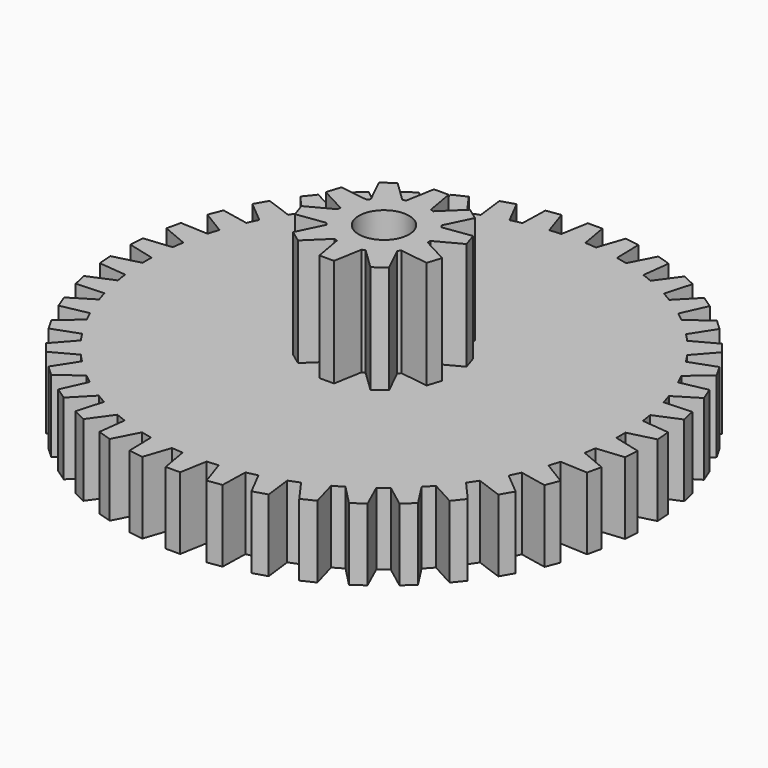
from build123d import *

# Parameters (mm, degrees)
F1_DEPTH = 3
F3_DEPTH = 4.5
F4_R     = 1.05
F5_DEPTH = 7.501


with BuildPart() as f1:
    # F0 (on Top) → F1 (new body)
    with BuildSketch(Plane.XY):
        with BuildLine():
            ThreePointArc((9.872176, -0.236155), (9.874294, -0.118086), (9.875, 0))
            ThreePointArc((9.875, 0), (9.874294, 0.118086), (9.872176, 0.236155))
            ThreePointArc((9.872176, 0.236155), (9.847387, 0.73796), (9.797109, 1.237854))
            ThreePointArc((9.797109, 1.237854), (9.764704, 1.471792), (9.726715, 1.704889))
            ThreePointArc((9.726715, 1.704889), (9.627413, 2.197394), (9.503191, 2.684211))
            ThreePointArc((9.503191, 2.684211), (9.436281, 2.910707), (9.363975, 3.135539))
            ThreePointArc((9.363975, 3.135539), (9.192378, 3.607743), (8.996987, 4.070608))
            ThreePointArc((8.996987, 4.070608), (8.897068, 4.284602), (8.792059, 4.496145))
            ThreePointArc((8.792059, 4.496145), (8.552001, 4.9375), (8.289806, 5.366074))
            ThreePointArc((8.289806, 5.366074), (8.159108, 5.562786), (8.023743, 5.756315))
            ThreePointArc((8.023743, 5.756315), (7.720586, 6.156962), (7.397443, 6.541671))
            ThreePointArc((7.397443, 6.541671), (7.238887, 6.716706), (7.076191, 6.887899))
            ThreePointArc((7.076191, 6.887899), (6.716706, 7.238887), (6.339835, 7.571137))
            ThreePointArc((6.339835, 7.571137), (6.156962, 7.720586), (5.970567, 7.865618))
            ThreePointArc((5.970567, 7.865618), (5.562786, 8.159108), (5.140604, 8.431477))
            ThreePointArc((5.140604, 8.431477), (4.9375, 8.552001), (4.731571, 8.667633))
            ThreePointArc((4.731571, 8.667633), (4.284602, 8.897068), (3.826542, 9.103472))
            ThreePointArc((3.826542, 9.103472), (3.607743, 9.192378), (3.38688, 9.276027))
            ThreePointArc((3.38688, 9.276027), (2.910707, 9.436281), (2.427, 9.57211))
            ThreePointArc((2.427, 9.57211), (2.197394, 9.627413), (1.966531, 9.677209))
            ThreePointArc((1.966531, 9.677209), (1.471792, 9.764704), (0.973244, 9.826923))
            ThreePointArc((0.973244, 9.826923), (0.73796, 9.847387), (0.502254, 9.862219))
            ThreePointArc((0.502254, 9.862219), (0, 9.875), (-0.502254, 9.862219))
            ThreePointArc((-0.502254, 9.862219), (-0.73796, 9.847387), (-0.973244, 9.826923))
            ThreePointArc((-0.973244, 9.826923), (-1.471792, 9.764704), (-1.966531, 9.677209))
            ThreePointArc((-1.966531, 9.677209), (-2.197394, 9.627413), (-2.427, 9.57211))
            ThreePointArc((-2.427, 9.57211), (-2.910707, 9.436281), (-3.38688, 9.276027))
            ThreePointArc((-3.38688, 9.276027), (-3.607743, 9.192378), (-3.826542, 9.103472))
            ThreePointArc((-3.826542, 9.103472), (-4.284602, 8.897068), (-4.731571, 8.667633))
            ThreePointArc((-4.731571, 8.667633), (-4.9375, 8.552001), (-5.140604, 8.431477))
            ThreePointArc((-5.140604, 8.431477), (-5.562786, 8.159108), (-5.970567, 7.865618))
            ThreePointArc((-5.970567, 7.865618), (-6.156962, 7.720586), (-6.339835, 7.571137))
            ThreePointArc((-6.339835, 7.571137), (-6.716706, 7.238887), (-7.076191, 6.887899))
            ThreePointArc((-7.076191, 6.887899), (-7.238887, 6.716706), (-7.397443, 6.541671))
            ThreePointArc((-7.397443, 6.541671), (-7.720586, 6.156962), (-8.023743, 5.756315))
            ThreePointArc((-8.023743, 5.756315), (-8.159108, 5.562786), (-8.289806, 5.366074))
            ThreePointArc((-8.289806, 5.366074), (-8.552001, 4.9375), (-8.792059, 4.496145))
            ThreePointArc((-8.792059, 4.496145), (-8.897068, 4.284602), (-8.996987, 4.070608))
            ThreePointArc((-8.996987, 4.070608), (-9.192378, 3.607743), (-9.363975, 3.135539))
            ThreePointArc((-9.363975, 3.135539), (-9.436281, 2.910707), (-9.503191, 2.684211))
            ThreePointArc((-9.503191, 2.684211), (-9.627413, 2.197394), (-9.726715, 1.704889))
            ThreePointArc((-9.726715, 1.704889), (-9.764704, 1.471792), (-9.797109, 1.237854))
            ThreePointArc((-9.797109, 1.237854), (-9.847387, 0.73796), (-9.872176, 0.236155))
            ThreePointArc((-9.872176, 0.236155), (-9.875, 0), (-9.872176, -0.236155))
            ThreePointArc((-9.872176, -0.236155), (-9.847387, -0.73796), (-9.797109, -1.237854))
            ThreePointArc((-9.797109, -1.237854), (-9.764704, -1.471792), (-9.726715, -1.704889))
            ThreePointArc((-9.726715, -1.704889), (-9.627413, -2.197394), (-9.503191, -2.684211))
            ThreePointArc((-9.503191, -2.684211), (-9.436281, -2.910707), (-9.363975, -3.135539))
            ThreePointArc((-9.363975, -3.135539), (-9.192378, -3.607743), (-8.996987, -4.070608))
            ThreePointArc((-8.996987, -4.070608), (-8.897068, -4.284602), (-8.792059, -4.496145))
            ThreePointArc((-8.792059, -4.496145), (-8.552001, -4.9375), (-8.289806, -5.366074))
            ThreePointArc((-8.289806, -5.366074), (-8.159108, -5.562786), (-8.023743, -5.756315))
            ThreePointArc((-8.023743, -5.756315), (-7.720586, -6.156962), (-7.397443, -6.541671))
            ThreePointArc((-7.397443, -6.541671), (-7.238887, -6.716706), (-7.076191, -6.887899))
            ThreePointArc((-7.076191, -6.887899), (-6.716706, -7.238887), (-6.339835, -7.571137))
            ThreePointArc((-6.339835, -7.571137), (-6.156962, -7.720586), (-5.970567, -7.865618))
            ThreePointArc((-5.970567, -7.865618), (-5.562786, -8.159108), (-5.140604, -8.431477))
            ThreePointArc((-5.140604, -8.431477), (-4.9375, -8.552001), (-4.731571, -8.667633))
            ThreePointArc((-4.731571, -8.667633), (-4.284602, -8.897068), (-3.826542, -9.103472))
            ThreePointArc((-3.826542, -9.103472), (-3.607743, -9.192378), (-3.38688, -9.276027))
            ThreePointArc((-3.38688, -9.276027), (-2.910707, -9.436281), (-2.427, -9.57211))
            ThreePointArc((-2.427, -9.57211), (-2.197394, -9.627413), (-1.966531, -9.677209))
            ThreePointArc((-1.966531, -9.677209), (-1.471792, -9.764704), (-0.973244, -9.826923))
            ThreePointArc((-0.973244, -9.826923), (-0.73796, -9.847387), (-0.502254, -9.862219))
            ThreePointArc((-0.502254, -9.862219), (0, -9.875), (0.502254, -9.862219))
            ThreePointArc((0.502254, -9.862219), (0.73796, -9.847387), (0.973244, -9.826923))
            ThreePointArc((0.973244, -9.826923), (1.471792, -9.764704), (1.966531, -9.677209))
            ThreePointArc((1.966531, -9.677209), (2.197394, -9.627413), (2.427, -9.57211))
            ThreePointArc((2.427, -9.57211), (2.910707, -9.436281), (3.38688, -9.276027))
            ThreePointArc((3.38688, -9.276027), (3.607743, -9.192378), (3.826542, -9.103472))
            ThreePointArc((3.826542, -9.103472), (4.284602, -8.897068), (4.731571, -8.667633))
            ThreePointArc((4.731571, -8.667633), (4.9375, -8.552001), (5.140604, -8.431477))
            ThreePointArc((5.140604, -8.431477), (5.562786, -8.159108), (5.970567, -7.865618))
            ThreePointArc((5.970567, -7.865618), (6.156962, -7.720586), (6.339835, -7.571137))
            ThreePointArc((6.339835, -7.571137), (6.716706, -7.238887), (7.076191, -6.887899))
            ThreePointArc((7.076191, -6.887899), (7.238887, -6.716706), (7.397443, -6.541671))
            ThreePointArc((7.397443, -6.541671), (7.720586, -6.156962), (8.023743, -5.756315))
            ThreePointArc((8.023743, -5.756315), (8.159108, -5.562786), (8.289806, -5.366074))
            ThreePointArc((8.289806, -5.366074), (8.552001, -4.9375), (8.792059, -4.496145))
            ThreePointArc((8.792059, -4.496145), (8.897068, -4.284602), (8.996987, -4.070608))
            ThreePointArc((8.996987, -4.070608), (9.192378, -3.607743), (9.363975, -3.135539))
            ThreePointArc((9.363975, -3.135539), (9.436281, -2.910707), (9.503191, -2.684211))
            ThreePointArc((9.503191, -2.684211), (9.627413, -2.197394), (9.726715, -1.704889))
            ThreePointArc((9.726715, -1.704889), (9.764704, -1.471792), (9.797109, -1.237854))
            ThreePointArc((9.797109, -1.237854), (9.847387, -0.73796), (9.872176, -0.236155))
        make_face()
        with BuildLine():
            ThreePointArc((9.797109, 1.237854), (9.847387, 0.73796), (9.872176, 0.236155))
            Line((9.872176, 0.236155), (10.987693, 0.520201))
            Line((10.987693, 0.520201), (10.942501, 1.12324))
            Line((10.942501, 1.12324), (9.797109, 1.237854))
        make_face()
        with BuildLine():
            Line((10.987693, -0.520201), (9.872176, -0.236155))
            ThreePointArc((9.872176, -0.236155), (9.847387, -0.73796), (9.797109, -1.237854))
            Line((9.797109, -1.237854), (10.942501, -1.12324))
            Line((10.942501, -1.12324), (10.987693, -0.520201))
        make_face()
        with BuildLine():
            ThreePointArc((9.503191, 2.684211), (9.627413, 2.197394), (9.726715, 1.704889))
            Line((9.726715, 1.704889), (10.787437, 2.152021))
            Line((10.787437, 2.152021), (10.652872, 2.741589))
            Line((10.652872, 2.741589), (9.503191, 2.684211))
        make_face()
        with BuildLine():
            Line((10.787437, -2.152021), (9.726715, -1.704889))
            ThreePointArc((9.726715, -1.704889), (9.627413, -2.197394), (9.503191, -2.684211))
            Line((9.503191, -2.684211), (10.652872, -2.741589))
            Line((10.652872, -2.741589), (10.787437, -2.152021))
        make_face()
        with BuildLine():
            ThreePointArc((8.996987, 4.070608), (9.192378, 3.607743), (9.363975, 3.135539))
            Line((9.363975, 3.135539), (10.346208, 3.735769))
            Line((10.346208, 3.735769), (10.125276, 4.298696))
            Line((10.125276, 4.298696), (8.996987, 4.070608))
        make_face()
        with BuildLine():
            Line((10.346208, -3.735769), (9.363975, -3.135539))
            ThreePointArc((9.363975, -3.135539), (9.192378, -3.607743), (8.996987, -4.070608))
            Line((8.996987, -4.070608), (10.125276, -4.298696))
            Line((10.125276, -4.298696), (10.346208, -3.735769))
        make_face()
        with BuildLine():
            ThreePointArc((8.289806, 5.366074), (8.552001, 4.9375), (8.792059, 4.496145))
            Line((8.792059, 4.496145), (9.673862, 5.236066))
            Line((9.673862, 5.236066), (9.371497, 5.759778))
            Line((9.371497, 5.759778), (8.289806, 5.366074))
        make_face()
        with BuildLine():
            Line((9.673862, -5.236066), (8.792059, -4.496145))
            ThreePointArc((8.792059, -4.496145), (8.552001, -4.9375), (8.289806, -5.366074))
            Line((8.289806, -5.366074), (9.371497, -5.759778))
            Line((9.371497, -5.759778), (9.673862, -5.236066))
        make_face()
        with BuildLine():
            ThreePointArc((7.397443, 6.541671), (7.720586, 6.156962), (8.023743, 5.756315))
            Line((8.023743, 5.756315), (8.785418, 6.619398))
            Line((8.785418, 6.619398), (8.408375, 7.092195))
            Line((8.408375, 7.092195), (7.397443, 6.541671))
        make_face()
        with BuildLine():
            Line((8.785418, -6.619398), (8.023743, -5.756315))
            ThreePointArc((8.023743, -5.756315), (7.720586, -6.156962), (7.397443, -6.541671))
            Line((7.397443, -6.541671), (8.408375, -7.092195))
            Line((8.408375, -7.092195), (8.785418, -6.619398))
        make_face()
        with BuildLine():
            ThreePointArc((6.339835, 7.571137), (6.716706, 7.238887), (7.076191, 6.887899))
            Line((7.076191, 6.887899), (7.700722, 7.854863))
            Line((7.700722, 7.854863), (7.257424, 8.266184))
            Line((7.257424, 8.266184), (6.339835, 7.571137))
        make_face()
        with BuildLine():
            Line((7.700722, -7.854863), (7.076191, -6.887899))
            ThreePointArc((7.076191, -6.887899), (6.716706, -7.238887), (6.339835, -7.571137))
            Line((6.339835, -7.571137), (7.257424, -8.266184))
            Line((7.257424, -8.266184), (7.700722, -7.854863))
        make_face()
        with BuildLine():
            ThreePointArc((5.140604, 8.431477), (5.562786, 8.159108), (5.970567, 7.865618))
            Line((5.970567, 7.865618), (6.444005, 8.914864))
            Line((6.444005, 8.914864), (5.944354, 9.255521))
            Line((5.944354, 9.255521), (5.140604, 8.431477))
        make_face()
        with BuildLine():
            Line((6.444005, -8.914864), (5.970567, -7.865618))
            ThreePointArc((5.970567, -7.865618), (5.562786, -8.159108), (5.140604, -8.431477))
            Line((5.140604, -8.431477), (5.944354, -9.255521))
            Line((5.944354, -9.255521), (6.444005, -8.914864))
        make_face()
        with BuildLine():
            ThreePointArc((3.826542, 9.103472), (4.284602, 8.897068), (4.731571, 8.667633))
            Line((4.731571, 8.667633), (5.043339, 9.775721))
            Line((5.043339, 9.775721), (4.498496, 10.038104))
            Line((4.498496, 10.038104), (3.826542, 9.103472))
        make_face()
        with BuildLine():
            Line((5.043339, -9.775721), (4.731571, -8.667633))
            ThreePointArc((4.731571, -8.667633), (4.284602, -8.897068), (3.826542, -9.103472))
            Line((3.826542, -9.103472), (4.498496, -10.038104))
            Line((4.498496, -10.038104), (5.043339, -9.775721))
        make_face()
        with BuildLine():
            ThreePointArc((2.427, 9.57211), (2.910707, 9.436281), (3.38688, 9.276027))
            Line((3.38688, 9.276027), (3.530014, 10.418205))
            Line((3.530014, 10.418205), (2.95215, 10.596453))
            Line((2.95215, 10.596453), (2.427, 9.57211))
        make_face()
        with BuildLine():
            Line((3.530014, -10.418205), (3.38688, -9.276027))
            ThreePointArc((3.38688, -9.276027), (2.910707, -9.436281), (2.427, -9.57211))
            Line((2.427, -9.57211), (2.95215, -10.596453))
            Line((2.95215, -10.596453), (3.530014, -10.418205))
        make_face()
        with BuildLine():
            ThreePointArc((0.973244, 9.826923), (1.471792, 9.764704), (1.966531, 9.677209))
            Line((1.966531, 9.677209), (1.937833, 10.827964))
            Line((1.937833, 10.827964), (1.339858, 10.918094))
            Line((1.339858, 10.918094), (0.973244, 9.826923))
        make_face()
        with BuildLine():
            Line((1.937833, -10.827964), (1.966531, -9.677209))
            ThreePointArc((1.966531, -9.677209), (1.471792, -9.764704), (0.973244, -9.826923))
            Line((0.973244, -9.826923), (1.339858, -10.918094))
            Line((1.339858, -10.918094), (1.937833, -10.827964))
        make_face()
        with BuildLine():
            ThreePointArc((-0.502254, 9.862219), (0, 9.875), (0.502254, 9.862219))
            Line((0.502254, 9.862219), (0.302365, 10.995844))
            Line((0.302365, 10.995844), (-0.302365, 10.995844))
            Line((-0.302365, 10.995844), (-0.502254, 9.862219))
        make_face()
        with BuildLine():
            Line((0.302365, -10.995844), (0.502254, -9.862219))
            ThreePointArc((0.502254, -9.862219), (0, -9.875), (-0.502254, -9.862219))
            Line((-0.502254, -9.862219), (-0.302365, -10.995844))
            Line((-0.302365, -10.995844), (0.302365, -10.995844))
        make_face()
        with BuildLine():
            ThreePointArc((-1.966531, 9.677209), (-1.471792, 9.764704), (-0.973244, 9.826923))
            Line((-0.973244, 9.826923), (-1.339858, 10.918094))
            Line((-1.339858, 10.918094), (-1.937833, 10.827964))
            Line((-1.937833, 10.827964), (-1.966531, 9.677209))
        make_face()
        with BuildLine():
            Line((-1.339858, -10.918094), (-0.973244, -9.826923))
            ThreePointArc((-0.973244, -9.826923), (-1.471792, -9.764704), (-1.966531, -9.677209))
            Line((-1.966531, -9.677209), (-1.937833, -10.827964))
            Line((-1.937833, -10.827964), (-1.339858, -10.918094))
        make_face()
        with BuildLine():
            ThreePointArc((-3.38688, 9.276027), (-2.910707, 9.436281), (-2.427, 9.57211))
            Line((-2.427, 9.57211), (-2.95215, 10.596453))
            Line((-2.95215, 10.596453), (-3.530014, 10.418205))
            Line((-3.530014, 10.418205), (-3.38688, 9.276027))
        make_face()
        with BuildLine():
            Line((-2.95215, -10.596453), (-2.427, -9.57211))
            ThreePointArc((-2.427, -9.57211), (-2.910707, -9.436281), (-3.38688, -9.276027))
            Line((-3.38688, -9.276027), (-3.530014, -10.418205))
            Line((-3.530014, -10.418205), (-2.95215, -10.596453))
        make_face()
        with BuildLine():
            ThreePointArc((-4.731571, 8.667633), (-4.284602, 8.897068), (-3.826542, 9.103472))
            Line((-3.826542, 9.103472), (-4.498496, 10.038104))
            Line((-4.498496, 10.038104), (-5.043339, 9.775721))
            Line((-5.043339, 9.775721), (-4.731571, 8.667633))
        make_face()
        with BuildLine():
            Line((-4.498496, -10.038104), (-3.826542, -9.103472))
            ThreePointArc((-3.826542, -9.103472), (-4.284602, -8.897068), (-4.731571, -8.667633))
            Line((-4.731571, -8.667633), (-5.043339, -9.775721))
            Line((-5.043339, -9.775721), (-4.498496, -10.038104))
        make_face()
        with BuildLine():
            ThreePointArc((-5.970567, 7.865618), (-5.562786, 8.159108), (-5.140604, 8.431477))
            Line((-5.140604, 8.431477), (-5.944354, 9.255521))
            Line((-5.944354, 9.255521), (-6.444005, 8.914864))
            Line((-6.444005, 8.914864), (-5.970567, 7.865618))
        make_face()
        with BuildLine():
            Line((-5.944354, -9.255521), (-5.140604, -8.431477))
            ThreePointArc((-5.140604, -8.431477), (-5.562786, -8.159108), (-5.970567, -7.865618))
            Line((-5.970567, -7.865618), (-6.444005, -8.914864))
            Line((-6.444005, -8.914864), (-5.944354, -9.255521))
        make_face()
        with BuildLine():
            ThreePointArc((-7.076191, 6.887899), (-6.716706, 7.238887), (-6.339835, 7.571137))
            Line((-6.339835, 7.571137), (-7.257424, 8.266184))
            Line((-7.257424, 8.266184), (-7.700722, 7.854863))
            Line((-7.700722, 7.854863), (-7.076191, 6.887899))
        make_face()
        with BuildLine():
            Line((-7.257424, -8.266184), (-6.339835, -7.571137))
            ThreePointArc((-6.339835, -7.571137), (-6.716706, -7.238887), (-7.076191, -6.887899))
            Line((-7.076191, -6.887899), (-7.700722, -7.854863))
            Line((-7.700722, -7.854863), (-7.257424, -8.266184))
        make_face()
        with BuildLine():
            ThreePointArc((-8.023743, 5.756315), (-7.720586, 6.156962), (-7.397443, 6.541671))
            Line((-7.397443, 6.541671), (-8.408375, 7.092195))
            Line((-8.408375, 7.092195), (-8.785418, 6.619398))
            Line((-8.785418, 6.619398), (-8.023743, 5.756315))
        make_face()
        with BuildLine():
            Line((-8.408375, -7.092195), (-7.397443, -6.541671))
            ThreePointArc((-7.397443, -6.541671), (-7.720586, -6.156962), (-8.023743, -5.756315))
            Line((-8.023743, -5.756315), (-8.785418, -6.619398))
            Line((-8.785418, -6.619398), (-8.408375, -7.092195))
        make_face()
        with BuildLine():
            ThreePointArc((-8.792059, 4.496145), (-8.552001, 4.9375), (-8.289806, 5.366074))
            Line((-8.289806, 5.366074), (-9.371497, 5.759778))
            Line((-9.371497, 5.759778), (-9.673862, 5.236066))
            Line((-9.673862, 5.236066), (-8.792059, 4.496145))
        make_face()
        with BuildLine():
            Line((-9.371497, -5.759778), (-8.289806, -5.366074))
            ThreePointArc((-8.289806, -5.366074), (-8.552001, -4.9375), (-8.792059, -4.496145))
            Line((-8.792059, -4.496145), (-9.673862, -5.236066))
            Line((-9.673862, -5.236066), (-9.371497, -5.759778))
        make_face()
        with BuildLine():
            ThreePointArc((-9.363975, 3.135539), (-9.192378, 3.607743), (-8.996987, 4.070608))
            Line((-8.996987, 4.070608), (-10.125276, 4.298696))
            Line((-10.125276, 4.298696), (-10.346208, 3.735769))
            Line((-10.346208, 3.735769), (-9.363975, 3.135539))
        make_face()
        with BuildLine():
            Line((-10.125276, -4.298696), (-8.996987, -4.070608))
            ThreePointArc((-8.996987, -4.070608), (-9.192378, -3.607743), (-9.363975, -3.135539))
            Line((-9.363975, -3.135539), (-10.346208, -3.735769))
            Line((-10.346208, -3.735769), (-10.125276, -4.298696))
        make_face()
        with BuildLine():
            ThreePointArc((-9.726715, 1.704889), (-9.627413, 2.197394), (-9.503191, 2.684211))
            Line((-9.503191, 2.684211), (-10.652872, 2.741589))
            Line((-10.652872, 2.741589), (-10.787437, 2.152021))
            Line((-10.787437, 2.152021), (-9.726715, 1.704889))
        make_face()
        with BuildLine():
            Line((-10.652872, -2.741589), (-9.503191, -2.684211))
            ThreePointArc((-9.503191, -2.684211), (-9.627413, -2.197394), (-9.726715, -1.704889))
            Line((-9.726715, -1.704889), (-10.787437, -2.152021))
            Line((-10.787437, -2.152021), (-10.652872, -2.741589))
        make_face()
        with BuildLine():
            ThreePointArc((-9.872176, 0.236155), (-9.847387, 0.73796), (-9.797109, 1.237854))
            Line((-9.797109, 1.237854), (-10.942501, 1.12324))
            Line((-10.942501, 1.12324), (-10.987693, 0.520201))
            Line((-10.987693, 0.520201), (-9.872176, 0.236155))
        make_face()
        with BuildLine():
            Line((-10.942501, -1.12324), (-9.797109, -1.237854))
            ThreePointArc((-9.797109, -1.237854), (-9.847387, -0.73796), (-9.872176, -0.236155))
            Line((-9.872176, -0.236155), (-10.987693, -0.520201))
            Line((-10.987693, -0.520201), (-10.942501, -1.12324))
        make_face()
    extrude(amount=F1_DEPTH)

    # F2 (on face) → F3 (join)
    with BuildSketch(Plane.XY.offset(3)):
        with BuildLine():
            ThreePointArc((1.873699, -0.069828), (1.874675, -0.03492), (1.875, 0))
            ThreePointArc((1.875, 0), (1.874675, 0.03492), (1.873699, 0.069828))
            ThreePointArc((1.873699, 0.069828), (1.783231, 0.579407), (1.556898, 1.044841))
            ThreePointArc((1.556898, 1.044841), (1.516907, 1.102097), (1.474811, 1.157825))
            ThreePointArc((1.474811, 1.157825), (1.102097, 1.516907), (0.645415, 1.760416))
            ThreePointArc((0.645415, 1.760416), (0.579407, 1.783231), (0.512595, 1.803572))
            ThreePointArc((0.512595, 1.803572), (0, 1.875), (-0.512595, 1.803572))
            ThreePointArc((-0.512595, 1.803572), (-0.579407, 1.783231), (-0.645415, 1.760416))
            ThreePointArc((-0.645415, 1.760416), (-1.102097, 1.516907), (-1.474811, 1.157825))
            ThreePointArc((-1.474811, 1.157825), (-1.516907, 1.102097), (-1.556898, 1.044841))
            ThreePointArc((-1.556898, 1.044841), (-1.783231, 0.579407), (-1.873699, 0.069828))
            ThreePointArc((-1.873699, 0.069828), (-1.875, 0), (-1.873699, -0.069828))
            ThreePointArc((-1.873699, -0.069828), (-1.783231, -0.579407), (-1.556898, -1.044841))
            ThreePointArc((-1.556898, -1.044841), (-1.516907, -1.102097), (-1.474811, -1.157825))
            ThreePointArc((-1.474811, -1.157825), (-1.102097, -1.516907), (-0.645415, -1.760416))
            ThreePointArc((-0.645415, -1.760416), (-0.579407, -1.783231), (-0.512595, -1.803572))
            ThreePointArc((-0.512595, -1.803572), (0, -1.875), (0.512595, -1.803572))
            ThreePointArc((0.512595, -1.803572), (0.579407, -1.783231), (0.645415, -1.760416))
            ThreePointArc((0.645415, -1.760416), (1.102097, -1.516907), (1.474811, -1.157825))
            ThreePointArc((1.474811, -1.157825), (1.516907, -1.102097), (1.556898, -1.044841))
            ThreePointArc((1.556898, -1.044841), (1.783231, -0.579407), (1.873699, -0.069828))
        make_face()
        with BuildLine():
            ThreePointArc((1.556898, 1.044841), (1.783231, 0.579407), (1.873699, 0.069828))
            Line((1.873699, 0.069828), (2.932501, 0.632803))
            Line((2.932501, 0.632803), (2.744395, 1.211733))
            Line((2.744395, 1.211733), (1.556898, 1.044841))
        make_face()
        with BuildLine():
            Line((2.932501, -0.632803), (1.873699, -0.069828))
            ThreePointArc((1.873699, -0.069828), (1.783231, -0.579407), (1.556898, -1.044841))
            Line((1.556898, -1.044841), (2.744395, -1.211733))
            Line((2.744395, -1.211733), (2.932501, -0.632803))
        make_face()
        with BuildLine():
            ThreePointArc((0.645415, 1.760416), (1.102097, 1.516907), (1.474811, 1.157825))
            Line((1.474811, 1.157825), (2.000491, 2.235629))
            Line((2.000491, 2.235629), (1.508024, 2.593427))
            Line((1.508024, 2.593427), (0.645415, 1.760416))
        make_face()
        with BuildLine():
            Line((2.000491, -2.235629), (1.474811, -1.157825))
            ThreePointArc((1.474811, -1.157825), (1.102097, -1.516907), (0.645415, -1.760416))
            Line((0.645415, -1.760416), (1.508024, -2.593427))
            Line((1.508024, -2.593427), (2.000491, -2.235629))
        make_face()
        with BuildLine():
            ThreePointArc((-0.512595, 1.803572), (0, 1.875), (0.512595, 1.803572))
            Line((0.512595, 1.803572), (0.304362, 2.984521))
            Line((0.304362, 2.984521), (-0.304362, 2.984521))
            Line((-0.304362, 2.984521), (-0.512595, 1.803572))
        make_face()
        with BuildLine():
            Line((0.304362, -2.984521), (0.512595, -1.803572))
            ThreePointArc((0.512595, -1.803572), (0, -1.875), (-0.512595, -1.803572))
            Line((-0.512595, -1.803572), (-0.304362, -2.984521))
            Line((-0.304362, -2.984521), (0.304362, -2.984521))
        make_face()
        with BuildLine():
            ThreePointArc((-1.474811, 1.157825), (-1.102097, 1.516907), (-0.645415, 1.760416))
            Line((-0.645415, 1.760416), (-1.508024, 2.593427))
            Line((-1.508024, 2.593427), (-2.000491, 2.235629))
            Line((-2.000491, 2.235629), (-1.474811, 1.157825))
        make_face()
        with BuildLine():
            Line((-1.508024, -2.593427), (-0.645415, -1.760416))
            ThreePointArc((-0.645415, -1.760416), (-1.102097, -1.516907), (-1.474811, -1.157825))
            Line((-1.474811, -1.157825), (-2.000491, -2.235629))
            Line((-2.000491, -2.235629), (-1.508024, -2.593427))
        make_face()
        with BuildLine():
            ThreePointArc((-1.873699, 0.069828), (-1.783231, 0.579407), (-1.556898, 1.044841))
            Line((-1.556898, 1.044841), (-2.744395, 1.211733))
            Line((-2.744395, 1.211733), (-2.932501, 0.632803))
            Line((-2.932501, 0.632803), (-1.873699, 0.069828))
        make_face()
        with BuildLine():
            Line((-2.744395, -1.211733), (-1.556898, -1.044841))
            ThreePointArc((-1.556898, -1.044841), (-1.783231, -0.579407), (-1.873699, -0.069828))
            Line((-1.873699, -0.069828), (-2.932501, -0.632803))
            Line((-2.932501, -0.632803), (-2.744395, -1.211733))
        make_face()
    extrude(amount=F3_DEPTH)

    # F4 (on face) → F5 (cut, through all)
    with BuildSketch(Plane.XY.offset(7.5)):
        Circle(F4_R)
    extrude(amount=-F5_DEPTH, mode=Mode.SUBTRACT)


solid = f1.part
